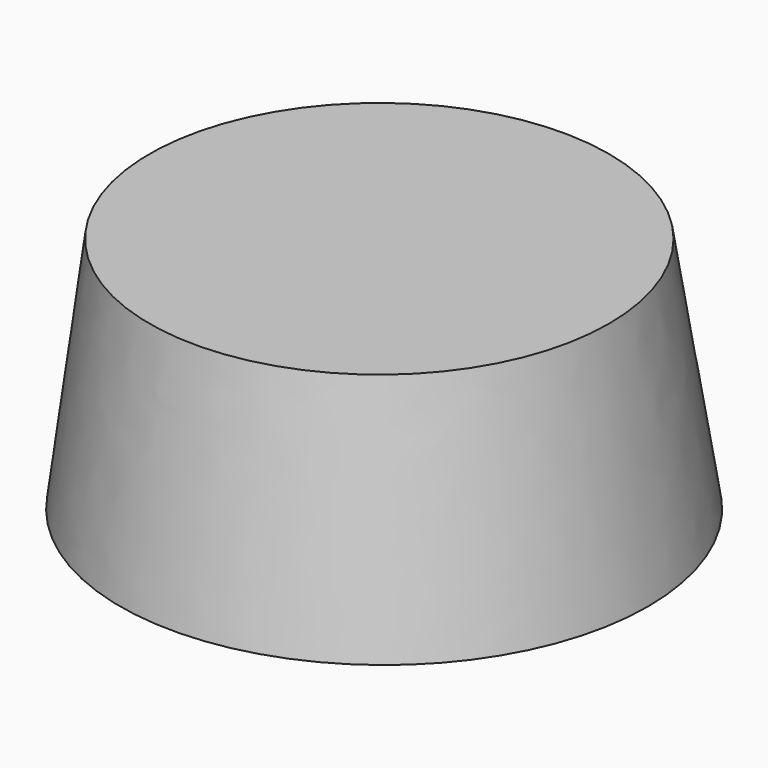
from build123d import *

# Parameters (mm, degrees)
F1_R = 73.6928237847
F2_R = 84.6532332843


with BuildPart() as f3:
    # F1 (on offset) → F3 section 0
    with BuildSketch(Plane.XY.offset(76.2)):
        with Locations((-16.5863987058, 21.4020702988)):
            Circle(F1_R)
    # F2 (on Top) → F3 section 1
    with BuildSketch(Plane.XY):
        with Locations((-15.5467214063, 22.0434311777)):
            Circle(F2_R)
    loft()


solid = f3.part
